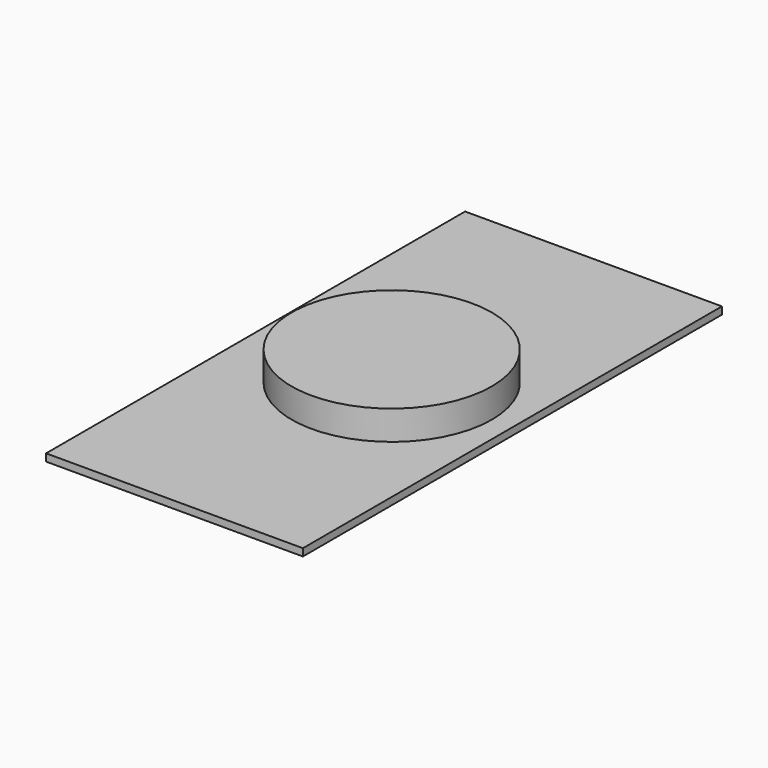
from build123d import *

# Parameters (mm, degrees)
F1_W     = 35.085768
F1_H     = 71.549714
F2_DEPTH = 1
F3_R     = 13.678143
F4_DEPTH = 4


with BuildPart() as f2:
    # F1 (on face) → F2 (new body)
    with BuildSketch(Plane.XY):
        Rectangle(F1_W, F1_H)
    extrude(amount=F2_DEPTH)

    # F3 (on face) → F4 (join)
    with BuildSketch(Plane.XY.offset(1)):
        with Locations((1.054034, 0)):
            Circle(F3_R)
    extrude(amount=F4_DEPTH)


solid = f2.part
